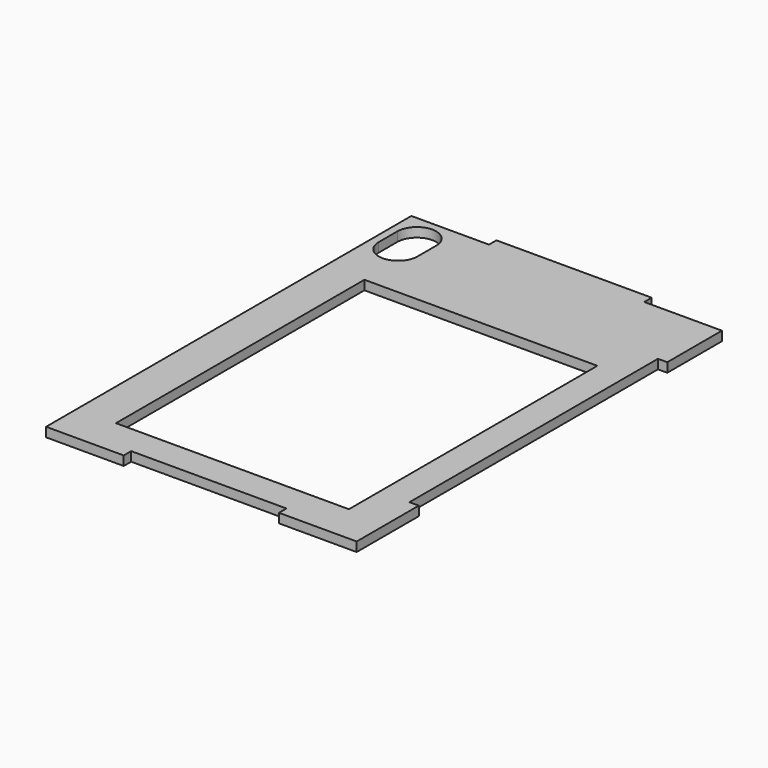
from build123d import *

# Parameters (mm, degrees)
F0_W     = 150
F0_H     = 200
F1_DEPTH = 6


with BuildPart() as f1:
    # F0 (on Top) → F1 (new body)
    with BuildSketch(Plane.XY):
        Polygon((0, 213.610874), (-50, 213.610874), (-50, -80.389126), (0, -80.389126), (0, -74.389126), (100, -74.389126), (100, -80.389126), (150, -80.389126), (150, -30.389126), (144, -30.389126), (144, 169.610874), (150, 169.610874), (150, 213.610874), (100, 213.610874), (100, 219.610874), (0, 219.610874), align=None)
        with Locations((50, 44.610874)):
            Rectangle(F0_W, F0_H, mode=Mode.SUBTRACT)
        with BuildLine():
            Line((-45, 181.110874), (-45, 196.110874))
            ThreePointArc((-45, 196.110874), (-32.5, 208.610874), (-20, 196.110874))
            Line((-20, 196.110874), (-20, 181.110874))
            ThreePointArc((-20, 181.110874), (-32.5, 168.610874), (-45, 181.110874))
        make_face(mode=Mode.SUBTRACT)
    extrude(amount=F1_DEPTH)


solid = f1.part
